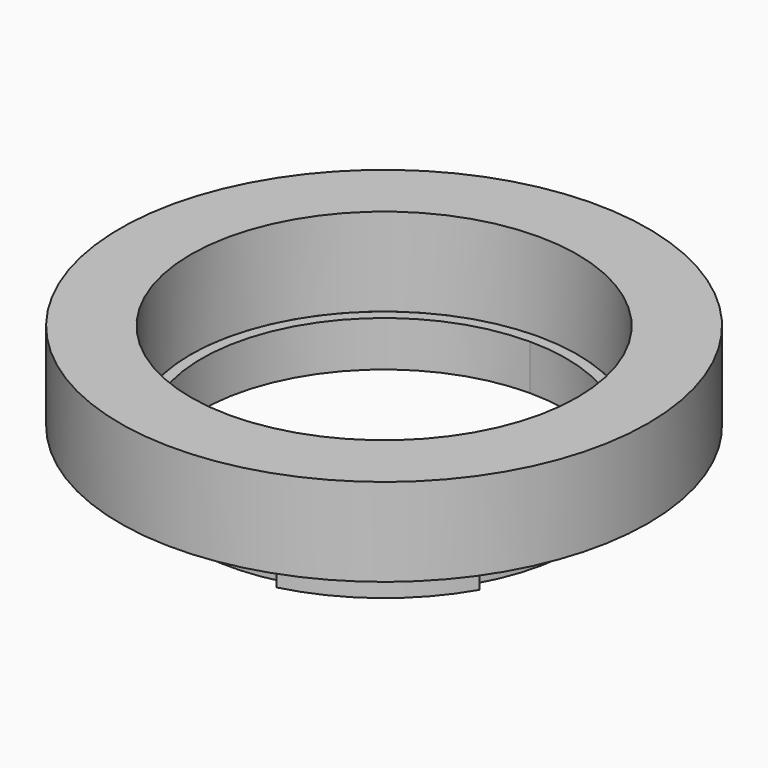
from build123d import *

# Parameters (mm, degrees)
F4_DEPTH = 5.15
F5_DEPTH = 1.7
F6_R     = 30
F6_R_2   = 21.975
F7_DEPTH = 10


with BuildPart() as f4:
    # F3 (on Top) → F4 (new body)
    with BuildSketch(Plane.XY):
        with BuildLine():
            ThreePointArc((15.7004660478, 15.3751744992), (8.5156081808, 20.2579624422), (0, 21.975))
            ThreePointArc((0, 21.975), (-13.2861060135, 17.5037142344), (-21.1655247279, 5.909415199))
            ThreePointArc((-21.1655247279, 5.909415199), (-21.8017141943, -2.7542482078), (-19.0309082482, -10.9875))
            ThreePointArc((-19.0309082482, -10.9875), (-8.5156081808, -20.2579624422), (5.4650586801, -21.2845896983))
            ThreePointArc((5.4650586801, -21.2845896983), (13.2861060135, -17.5037142344), (19.0309082482, -10.9875))
            ThreePointArc((19.0309082482, -10.9875), (21.2262200327, -5.6875485161), (21.975, 0))
            ThreePointArc((21.975, 0), (20.3459869065, 8.3030983253), (15.7004660478, 15.3751744992))
        make_face()
        with BuildLine():
            ThreePointArc((0, 20.725), (14.6547880401, 14.6547880401), (20.725, 0))
            ThreePointArc((20.725, 0), (-14.6547880401, -14.6547880401), (0, 20.725))
        make_face(mode=Mode.SUBTRACT)
    extrude(amount=F4_DEPTH)

    # F3 (on Top) → F5 (join)
    with BuildSketch(Plane.XY):
        with BuildLine():
            ThreePointArc((-19.0309082482, -10.9875), (-21.8017141943, -2.7542482078), (-21.1655247279, 5.909415199))
            Line((-21.1655247279, 5.909415199), (-22.3694794905, 6.2455594083))
            ThreePointArc((-22.3694794905, 6.2455594083), (-23.0418572088, -2.9109176167), (-20.1134400029, -11.6125))
            Line((-20.1134400029, -11.6125), (-19.0309082482, -10.9875))
        make_face()
        with BuildLine():
            Line((0, 23.225), (0, 21.975))
            ThreePointArc((0, 21.975), (8.5156081808, 20.2579624422), (15.7004660478, 15.3751744992))
            Line((15.7004660478, 15.3751744992), (16.5935528537, 16.2497578041))
            ThreePointArc((16.5935528537, 16.2497578041), (9, 21.4102925015), (0, 23.225))
        make_face()
        with BuildLine():
            Line((20.1134400029, -11.6125), (19.0309082482, -10.9875))
            ThreePointArc((19.0309082482, -10.9875), (13.2861060135, -17.5037142344), (5.4650586801, -21.2845896983))
            Line((5.4650586801, -21.2845896983), (5.7759266368, -22.4953172124))
            ThreePointArc((5.7759266368, -22.4953172124), (14.0418572088, -18.4993748848), (20.1134400029, -11.6125))
        make_face()
    extrude(amount=F5_DEPTH)


with BuildPart() as f7:
    # F6 (on face) → F7 (new body)
    with BuildSketch(Plane.XY.offset(5.15)):
        Circle(F6_R)
        Circle(F6_R_2, mode=Mode.SUBTRACT)
    extrude(amount=F7_DEPTH)


solid = Compound([f4.part, f7.part])
